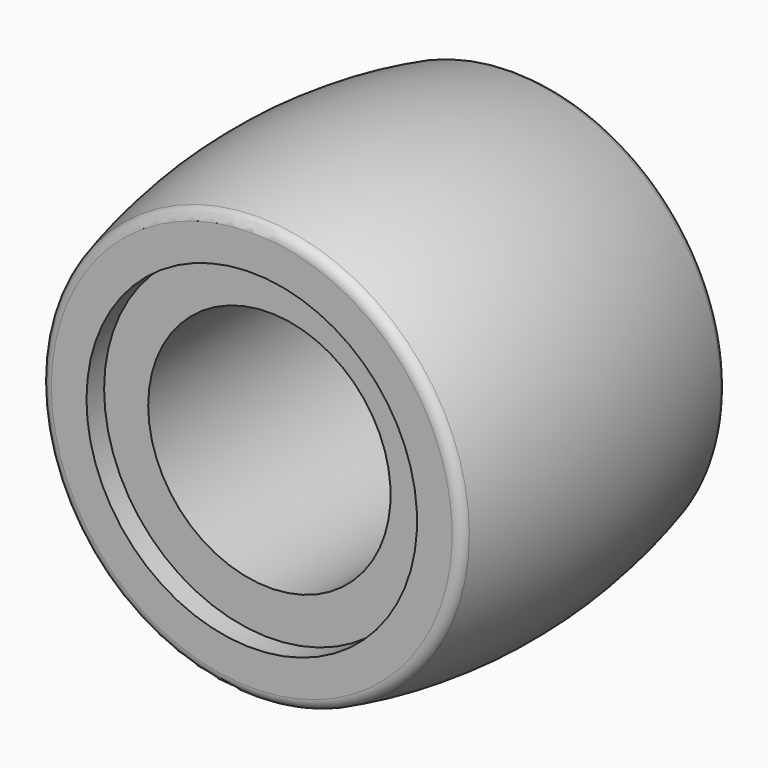
from build123d import *


with BuildPart() as f1:
    # F0 (on Top) → F1 (revolve)
    with BuildSketch(Plane.XY):
        with BuildLine():
            Line((3.027946, 47.625), (-7.095048, 47.625))
            ThreePointArc((-7.095048, 47.625), (-9.03343, 46.964617), (-10.165466, 45.258182))
            ThreePointArc((-10.165466, 45.258182), (-16.022054, 0), (-10.165466, -45.258182))
            ThreePointArc((-10.165466, -45.258182), (-9.03343, -46.964617), (-7.095048, -47.625))
            Line((-7.095048, -47.625), (3.027946, -47.625))
            Line((3.027946, -47.625), (3.027946, -41.275))
            Line((3.027946, -41.275), (3.027946, 41.275))
            Line((3.027946, 41.275), (3.027946, 47.625))
        make_face()
        Polygon((15.727946, 41.275), (3.027946, 41.275), (3.027946, -41.275), (15.727946, -41.275), (15.727946, -1.476823), (15.727946, 0), align=None)
    revolve(axis=Axis((50.652946, -0.738411, 0), (0, 1, 0)))


solid = f1.part
